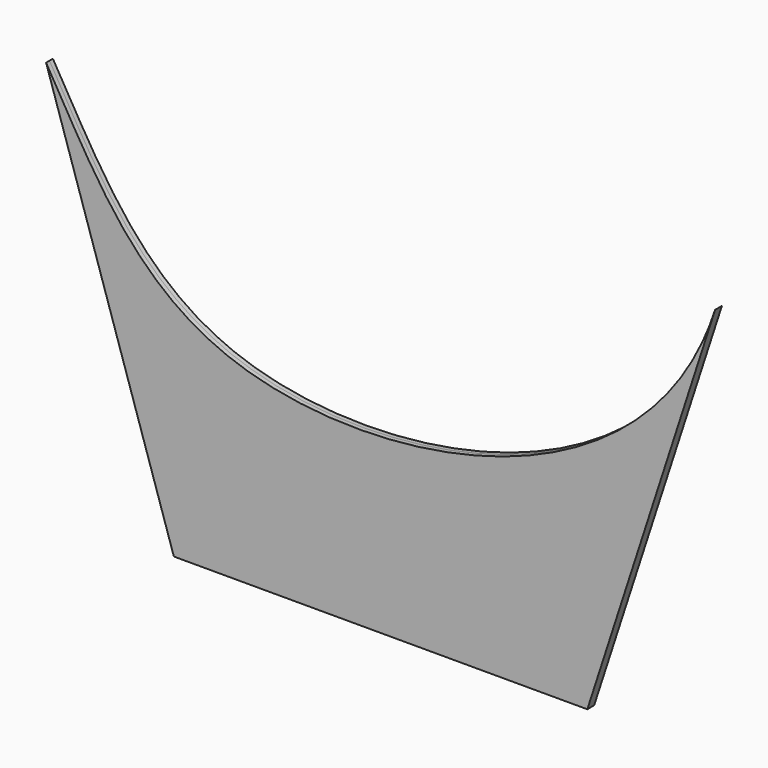
from build123d import *

# Parameters (mm, degrees)
F1_DEPTH = 2.38125


with BuildPart() as f1:
    # F0 (on Front) → F1 (new body, symmetric)
    with BuildSketch(Plane.XZ):
        with BuildLine():
            Line((-115.5414439804, -159.0291545598), (115.5414439804, -159.0291545598))
            Line((115.5414439804, -159.0291545598), (186.9499834696, 60.7437318397))
            add(Edge.make_bspline(
                [(-186.9499834696, 60.7437318397), (-158.5344370585, 12.5341240839), (-105.8621510044, -97.8968048071), (149.6138950392, -54.164932865), (186.9499834696, 60.7437318397)],
                knots=[0, 0, 0, 0, 0.4263853727, 1, 1, 1, 1], degree=3))
            Line((-186.9499834696, 60.7437318397), (-115.5414439804, -159.0291545598))
        make_face()
    extrude(amount=F1_DEPTH, both=True)


solid = f1.part
